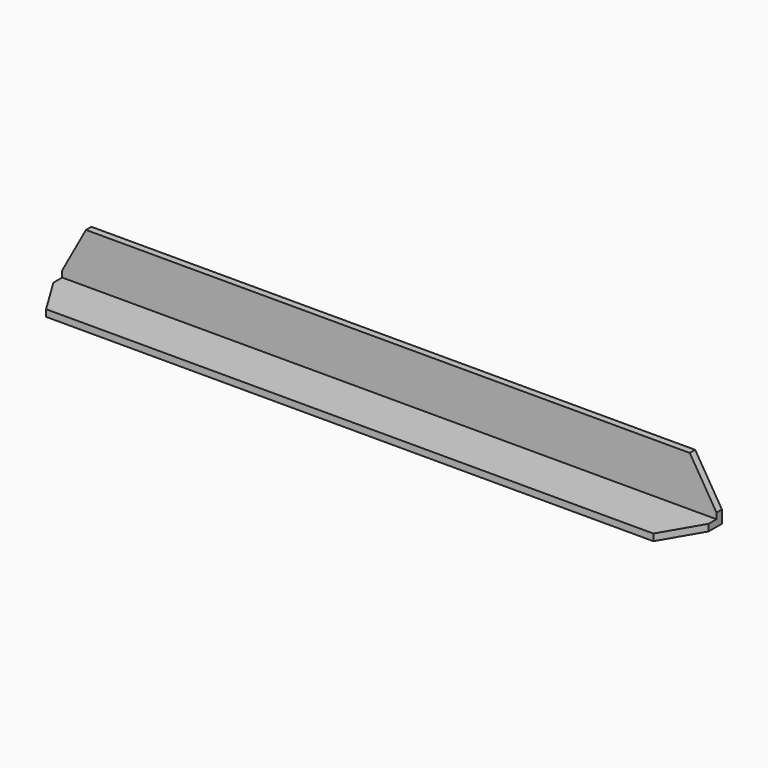
from build123d import *

# Parameters (mm, degrees)
F0_W      = 294.42918
F0_H      = 25.4
F1_DEPTH  = 3.048
F2_W      = 294.42918
F2_H      = 3.048
F3_DEPTH  = 22.352
F5_DEPTH  = 25.4
F7_DEPTH  = 25.4
F9_DEPTH  = 25.4
F11_DEPTH = 25.4


with BuildPart() as f1:
    # F0 (on Front) → F1 (new body)
    with BuildSketch(Plane.XZ):
        with Locations((147.21459, 12.7)):
            Rectangle(F0_W, F0_H)
    extrude(amount=F1_DEPTH)

    # F2 (on face) → F3 (join)
    with BuildSketch(Plane.XZ.offset(3.048)):
        with Locations((147.21459, 1.524)):
            Rectangle(F2_W, F2_H)
    extrude(amount=F3_DEPTH)

    # F4 (on face) → F5 (cut)
    with BuildSketch(Plane.XZ.offset(3.048)):
        Polygon((0, 5.934239), (10.683293, 25.4), (4.401662, 35.47851), (-15.100691, 25.4), align=None)
    extrude(amount=-F5_DEPTH, mode=Mode.SUBTRACT)

    # F6 (on face) → F7 (cut)
    with BuildSketch(Plane.XY.offset(3.048)):
        Polygon((13.454681, -30.058125), (0, -8.04578), (-4.952007, -25.4), (9.960025, -44.26622), align=None)
    extrude(amount=-F7_DEPTH, mode=Mode.SUBTRACT)

    # F8 (on face) → F9 (cut)
    with BuildSketch(Plane.XY.offset(3.048)):
        Polygon((299.843073, 0), (294.42918, -7.468464), (280.858219, -30.611685), (297.753662, -36.44076), align=None)
    extrude(amount=-F9_DEPTH, mode=Mode.SUBTRACT)

    # F10 (on face) → F11 (cut)
    with BuildSketch(Plane.XZ.offset(3.048)):
        Polygon((279.356599, 30.402403), (294.42918, 5.696148), (301.659763, 3.048), (311.673284, 34.467302), align=None)
    extrude(amount=-F11_DEPTH, mode=Mode.SUBTRACT)


solid = f1.part
